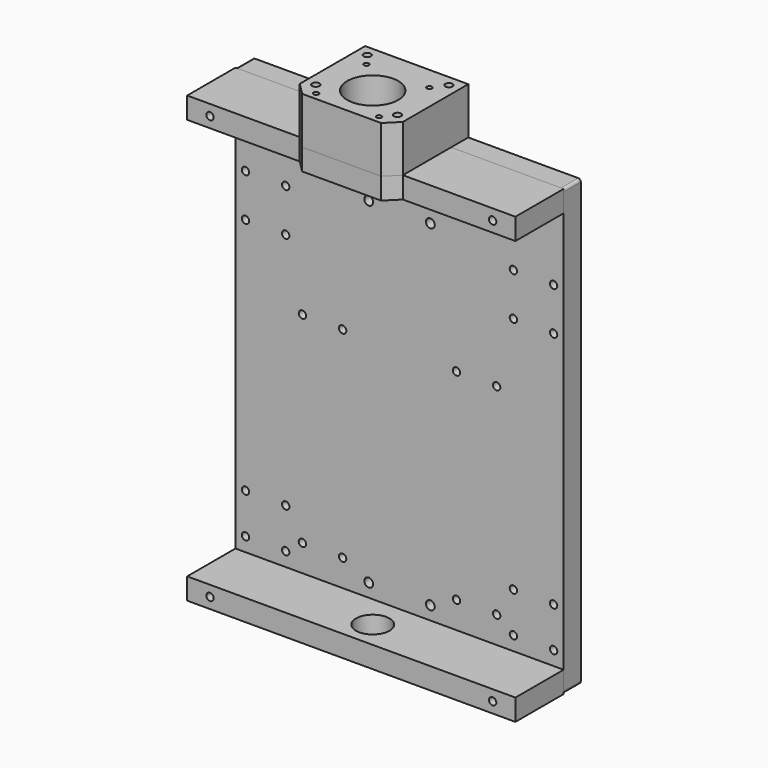
from build123d import *

# Parameters (mm, degrees)
F0_R              = 2.75
F0_R_2            = 3.3
F1_DEPTH          = 16
F2_W              = 245
F2_H              = 16
F2_R              = 2.75
F3_DEPTH          = 45
F4_R              = 12.5
F5_DEPTH          = 332.001
F7_DEPTH          = 16
F8_R              = 19.1
F9_DEPTH          = 35
F11_D             = 3.7973
F11_DEPTH         = 20
F11_TIP           = 1.1408240143
F12_D             = 4.2
F12_DEPTH         = 55
F12_CBORE_D       = 5.5
F12_CBORE_DEPTH   = 35
F12_TIP           = 1.2618073
F12_2_D           = 4.2
F12_2_DEPTH       = 55
F12_2_CBORE_D     = 5.5
F12_2_CBORE_DEPTH = 35
F12_2_TIP         = 1.2618073
F13_D             = 4.2
F13_DEPTH         = 43
F13_CBORE_D       = 5.5
F13_CBORE_DEPTH   = 35
F13_TIP           = 1.2618073
F13_2_D           = 4.2
F13_2_DEPTH       = 43
F13_2_CBORE_D     = 5.5
F13_2_CBORE_DEPTH = 35
F13_2_TIP         = 1.2618073


with BuildPart() as f1:
    # F0 (on Front) → F1 (new body)
    with BuildSketch(Plane.XZ):
        with BuildLine():
            ThreePointArc((122.5, 164), (121.9142135624, 165.4142135624), (120.5, 166))
            Line((120.5, 166), (-120.5, 166))
            ThreePointArc((-120.5, 166), (-121.9142135624, 165.4142135624), (-122.5, 164))
            Line((-122.5, 164), (-122.5, -164))
            ThreePointArc((-122.5, -164), (-121.9142135624, -165.4142135624), (-120.5, -166))
            Line((-120.5, -166), (120.5, -166))
            ThreePointArc((120.5, -166), (121.9142135624, -165.4142135624), (122.5, -164))
            Line((122.5, -164), (122.5, 164))
        make_face()
        with Locations((-105.5, -158)):
            Circle(F0_R, mode=Mode.SUBTRACT)
        with Locations((-115, -139.5)):
            Circle(F0_R, mode=Mode.SUBTRACT)
        with Locations((-85, -139.5)):
            Circle(F0_R, mode=Mode.SUBTRACT)
        with Locations((-72.5, -130)):
            Circle(F0_R, mode=Mode.SUBTRACT)
        with Locations((-115, -109.5)):
            Circle(F0_R, mode=Mode.SUBTRACT)
        with Locations((-85, -109.5)):
            Circle(F0_R, mode=Mode.SUBTRACT)
        with Locations((-42.5, -130)):
            Circle(F0_R, mode=Mode.SUBTRACT)
        with Locations((-23, -140)):
            Circle(F0_R_2, mode=Mode.SUBTRACT)
        with Locations((23, -140)):
            Circle(F0_R_2, mode=Mode.SUBTRACT)
        with Locations((42.5, -130)):
            Circle(F0_R, mode=Mode.SUBTRACT)
        with Locations((72.5, -130)):
            Circle(F0_R, mode=Mode.SUBTRACT)
        with Locations((85, -139.5)):
            Circle(F0_R, mode=Mode.SUBTRACT)
        with Locations((105.5, -158)):
            Circle(F0_R, mode=Mode.SUBTRACT)
        with Locations((115, -139.5)):
            Circle(F0_R, mode=Mode.SUBTRACT)
        with Locations((85, -109.5)):
            Circle(F0_R, mode=Mode.SUBTRACT)
        with Locations((115, -109.5)):
            Circle(F0_R, mode=Mode.SUBTRACT)
        with Locations((-72.5, 20)):
            Circle(F0_R, mode=Mode.SUBTRACT)
        with Locations((-115, 68.5)):
            Circle(F0_R, mode=Mode.SUBTRACT)
        with Locations((-85, 68.5)):
            Circle(F0_R, mode=Mode.SUBTRACT)
        with Locations((-42.5, 20)):
            Circle(F0_R, mode=Mode.SUBTRACT)
        with Locations((-115, 100.5)):
            Circle(F0_R, mode=Mode.SUBTRACT)
        with Locations((-85, 100.5)):
            Circle(F0_R, mode=Mode.SUBTRACT)
        with Locations((-105.5, 158)):
            Circle(F0_R, mode=Mode.SUBTRACT)
        with Locations((-23, 111)):
            Circle(F0_R_2, mode=Mode.SUBTRACT)
        with Locations((-23, 124)):
            Circle(F0_R_2, mode=Mode.SUBTRACT)
        with Locations((42.5, 20)):
            Circle(F0_R, mode=Mode.SUBTRACT)
        with Locations((72.5, 20)):
            Circle(F0_R, mode=Mode.SUBTRACT)
        with Locations((85, 68.5)):
            Circle(F0_R, mode=Mode.SUBTRACT)
        with Locations((115, 68.5)):
            Circle(F0_R, mode=Mode.SUBTRACT)
        with Locations((23, 111)):
            Circle(F0_R_2, mode=Mode.SUBTRACT)
        with Locations((23, 124)):
            Circle(F0_R_2, mode=Mode.SUBTRACT)
        with Locations((85, 100.5)):
            Circle(F0_R, mode=Mode.SUBTRACT)
        with Locations((115, 100.5)):
            Circle(F0_R, mode=Mode.SUBTRACT)
        with Locations((105.5, 158)):
            Circle(F0_R, mode=Mode.SUBTRACT)
    extrude(amount=F1_DEPTH)

    # F12
    with Locations(Plane.XY.offset(201)):
        with Locations((-30.5, -8), (30.5, -8)):
            CounterBoreHole(F12_D / 2, F12_CBORE_D / 2, F12_CBORE_DEPTH, depth=F12_DEPTH)
            with Locations((0, 0, -(F12_DEPTH + F12_TIP / 2))):  # 118° drill point
                Cone(0, F12_D / 2, F12_TIP, mode=Mode.SUBTRACT)


with BuildPart() as f3:
    # F2 (on face) → F3 (new body)
    with BuildSketch(Plane.XZ.offset(16)):
        with Locations((0, 158)):
            Rectangle(F2_W, F2_H)
        with Locations((-105.5, 158)):
            Circle(F2_R, mode=Mode.SUBTRACT)
        with Locations((105.5, 158)):
            Circle(F2_R, mode=Mode.SUBTRACT)
    extrude(amount=F3_DEPTH)


with BuildPart() as f3b:
    # F2 (on face) → F3, piece 2 (new body)
    with BuildSketch(Plane.XZ.offset(16)):
        with Locations((0, -158)):
            Rectangle(F2_W, F2_H)
        with Locations((-105.5, -158)):
            Circle(F2_R, mode=Mode.SUBTRACT)
        with Locations((105.5, -158)):
            Circle(F2_R, mode=Mode.SUBTRACT)
    extrude(amount=F3_DEPTH)


with BuildPart() as f5_tool:
    # F4 (on face) → F5 (new body, through all)
    with BuildSketch(Plane.XY.offset(166)):
        with Locations((0, -41)):
            Circle(F4_R)
    extrude(amount=-F5_DEPTH)


with BuildPart() as f3_1:
    add(f3.part)

    # F5: cut by f5_tool
    add(f5_tool.part, mode=Mode.SUBTRACT)

    # F6 (on face) → F7 (join)
    with BuildSketch(Plane.XY.offset(166)):
        Polygon((38.5, -61), (-38.5, -61), (-29.5, -70), (29.5, -70), align=None)
    extrude(amount=-F7_DEPTH)

    # F13
    with Locations(Plane.XY.offset(201)):
        with Locations((-30.5, -56), (30.5, -56)):
            CounterBoreHole(F13_D / 2, F13_CBORE_D / 2, F13_CBORE_DEPTH, depth=F13_DEPTH)
            with Locations((0, 0, -(F13_DEPTH + F13_TIP / 2))):  # 118° drill point
                Cone(0, F13_D / 2, F13_TIP, mode=Mode.SUBTRACT)


with BuildPart() as f3b_1:
    add(f3b.part)

    # F5: cut by f5_tool
    add(f5_tool.part, mode=Mode.SUBTRACT)


with BuildPart() as f9:
    # F8 (on face) → F9 (new body)
    with BuildSketch(Plane.XY.offset(166)):
        Polygon((-38.5, -61), (-29.5, -70), (29.5, -70), (38.5, -61), (38.5, 0), (-38.5, 0), align=None)
        with Locations((0, -41)):
            Circle(F8_R, mode=Mode.SUBTRACT)
    extrude(amount=F9_DEPTH)

    # F11
    with Locations(Plane.XY.offset(201)):
        with Locations((-23.5, -17.5), (-23.5, -64.5), (23.5, -64.5), (23.5, -17.5)):
            Hole(F11_D / 2, depth=F11_DEPTH)
            with Locations((0, 0, -(F11_DEPTH + F11_TIP / 2))):  # 118° drill point
                Cone(0, F11_D / 2, F11_TIP, mode=Mode.SUBTRACT)

    # F12#2
    with Locations(Plane.XY.offset(201)):
        with Locations((-30.5, -8), (30.5, -8)):
            CounterBoreHole(F12_2_D / 2, F12_2_CBORE_D / 2, F12_2_CBORE_DEPTH, depth=F12_2_DEPTH)
            with Locations((0, 0, -(F12_2_DEPTH + F12_2_TIP / 2))):  # 118° drill point
                Cone(0, F12_2_D / 2, F12_2_TIP, mode=Mode.SUBTRACT)

    # F13#2
    with Locations(Plane.XY.offset(201)):
        with Locations((-30.5, -56), (30.5, -56)):
            CounterBoreHole(F13_2_D / 2, F13_2_CBORE_D / 2, F13_2_CBORE_DEPTH, depth=F13_2_DEPTH)
            with Locations((0, 0, -(F13_2_DEPTH + F13_2_TIP / 2))):  # 118° drill point
                Cone(0, F13_2_D / 2, F13_2_TIP, mode=Mode.SUBTRACT)


solid = Compound([f1.part, f3_1.part, f3b_1.part, f9.part])
